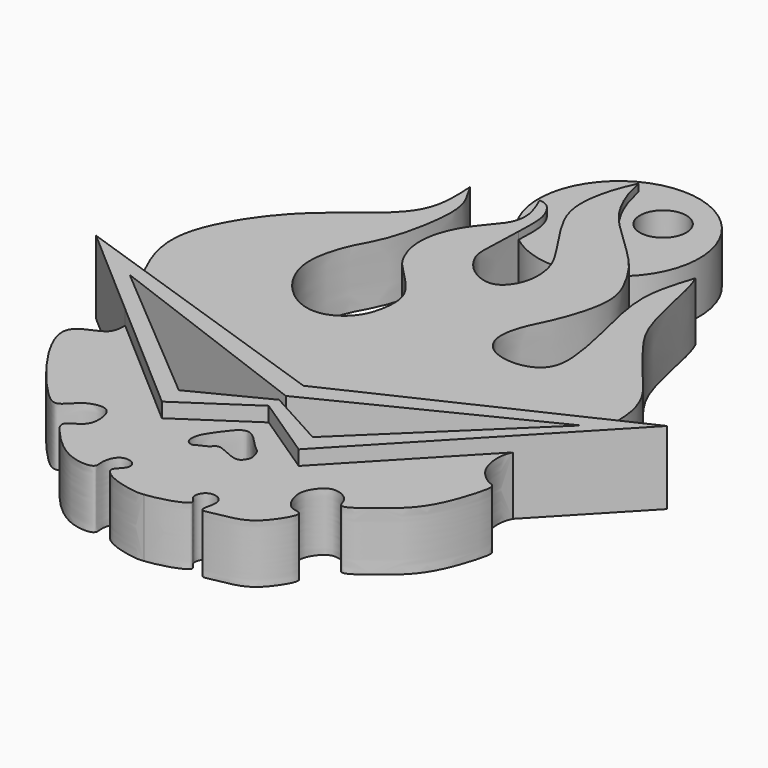
from build123d import *

# Parameters (mm, degrees)
F1_DEPTH = 4
F0_R     = 1.5875
F2_DEPTH = 3.5
F3_DEPTH = 5


with BuildPart() as f1:
    # F0 (on Top) → F1 (new body)
    with BuildSketch(Plane.XY):
        with BuildLine():
            Line((-23.4463458035, -3.1066080533), (-8.0482456853, -8.351800965))
            Line((-8.0482456853, -8.351800965), (6.2099122978, -1.6479134176))
            add(Edge.make_bspline(
                [(-0.6776107475, 15.9168429673), (-0.5547234187, 15.6335068813), (-0.193005946, 14.7995102936), (0.5842103137, 10.3623141888), (1.8686840331, 8.1322903263), (4.1843306677, 5.3157376132), (5.7923203266, 3.4772454688), (6.4672636362, 1.341805332), (6.339184868, -0.9593375788), (6.2434369598, -1.4693428761), (6.2099122978, -1.6479134176)],
                knots=[0, 0, 0, 0, 0.0889639989, 0.2618645319, 0.400374587, 0.555994263, 0.6854649854, 0.8091162952, 0.933164995, 1, 1, 1, 1], degree=3))
            add(Edge.make_bspline(
                [(-4.2128812638, 14.6453924647), (-3.8775023598, 14.1980538485), (-3.272630837, 13.1669278968), (-2.244509103, 11.0539583362), (-3.5600318825, 7.250304177), (-4.4287622123, 5.7933014491), (-4.8627791788, 3.7670937923), (-3.7434011839, 2.3273631703), (-1.5765012047, 2.0709050405), (0.0385468062, 3.0430204467), (-0.0892461913, 5.5697158518), (-0.8325343001, 8.7094761689), (-1.7695911961, 12.5295841732), (-1.0353936141, 14.8070216671), (-0.6776107475, 15.9168429673)],
                knots=[0.2575455897, 0.2575455897, 0.2575455897, 0.2575455897, 0.3019464562, 0.3643188106, 0.4430469187, 0.4973602682, 0.5521805979, 0.603169185, 0.6606744669, 0.7114053954, 0.7718381415, 0.8456781275, 0.9247971891, 1, 1, 1, 1], degree=3))
            add(Edge.make_bspline(
                [(-9.8862806335, 22.56250754), (-9.7941318664, 22.1506914948), (-9.588449974, 21.2314919632), (-8.744850994, 19.2891661398), (-7.0948894855, 17.5295824588), (-5.0605769539, 15.7131426738), (-4.3245595881, 14.7943524214), (-4.2128812638, 14.6453924647)],
                knots=[0, 0, 0, 0, 0.0465869149, 0.1039849489, 0.1675927617, 0.2427604786, 0.2575455897, 0.2575455897, 0.2575455897, 0.2575455897], degree=3))
            add(Edge.make_bspline(
                [(-8.0434103396, 13.0874726912), (-8.1909932862, 13.3482535829), (-8.868731027, 14.4095082148), (-10.4052543664, 16.5801724301), (-11.0016735043, 18.598484066), (-10.6029665302, 20.9581319115), (-10.1142868351, 22.0520920363), (-9.8862806335, 22.56250754)],
                knots=[0.6581946752, 0.6581946752, 0.6581946752, 0.6581946752, 0.6889243431, 0.7808844805, 0.8549837752, 0.9323389146, 1, 1, 1, 1], degree=3))
            add(Edge.make_bspline(
                [(-11.4209095896, 14.2429178627), (-11.4517468384, 13.3988160816), (-11.5499069823, 11.6109293485), (-11.5013479001, 10.4882445874), (-10.531288945, 9.1161864772), (-9.168481161, 8.5195425848), (-8.2096502519, 8.7376578486), (-7.3604577791, 9.9709171995), (-7.3896420016, 11.7412506591), (-7.8259468897, 12.7032120859), (-8.0434103396, 13.0874726912)],
                knots=[0.1837278223, 0.1837278223, 0.1837278223, 0.1837278223, 0.2509088743, 0.3097479396, 0.3735074258, 0.4344388861, 0.4819421849, 0.5415255673, 0.612914514, 0.6581946752, 0.6581946752, 0.6581946752, 0.6581946752], degree=3))
            add(Edge.make_bspline(
                [(-12.8001319264, 17.7603885514), (-12.583109562, 17.7218502114), (-12.0906696814, 17.6344038562), (-11.4581307332, 16.5719756068), (-11.3791334498, 15.6413701517), (-11.4085171256, 14.5821342746), (-11.4209095896, 14.2429178627)],
                knots=[0, 0, 0, 0, 0.0417833397, 0.094809504, 0.1567299935, 0.1837278223, 0.1837278223, 0.1837278223, 0.1837278223], degree=3))
            add(Edge.make_bspline(
                [(-12.3268241169, 15.1314950732), (-12.2068654393, 15.4887601), (-12.1767524667, 16.3532142218), (-12.5714586795, 17.2441971375), (-12.8001319264, 17.7603885514)],
                knots=[0.9185865108, 0.9185865108, 0.9185865108, 0.9185865108, 0.952833053, 1, 1, 1, 1], degree=3))
            add(Edge.make_bspline(
                [(-16.6511703283, 16.6377127171), (-16.4258684407, 16.2718001963), (-15.9361034206, 15.4763734246), (-15.3279351175, 13.7794825), (-16.2191117536, 9.1708597436), (-17.4728177376, 7.4267977861), (-18.3571062486, 4.3361910837), (-17.1780986632, 1.7975340283), (-15.3818177743, 0.3090335929), (-13.5307942057, 0.0905361866), (-11.9119236503, 1.2288050387), (-11.4007805405, 3.0066811855), (-11.407761035, 4.8723790531), (-13.2373303166, 6.6764804394), (-14.2508784646, 7.6923667527), (-14.8774252979, 9.3726830754), (-14.8131660002, 11.1329727587), (-13.9037698319, 13.1831468203), (-12.6370779779, 14.3724927453), (-12.3594506235, 15.034325698), (-12.3268241169, 15.1314950732)],
                knots=[0, 0, 0, 0, 0.0419742673, 0.0912443659, 0.1695359879, 0.2256379329, 0.2890431708, 0.3496107164, 0.404786674, 0.4530224975, 0.5025107568, 0.5517008189, 0.6008748216, 0.6585309608, 0.7034168172, 0.7511819918, 0.7997796648, 0.8548358262, 0.9092720948, 0.9185865108, 0.9185865108, 0.9185865108, 0.9185865108], degree=3))
            add(Edge.make_bspline(
                [(-23.4463458035, -3.1066080533), (-23.8612850977, -2.3889557393), (-24.7662955917, -0.823707792), (-25.8471760533, 2.883328846), (-22.9748836174, 7.7157545922), (-20.0390259464, 10.1985178591), (-16.4443182773, 12.8327875278), (-16.5837154908, 15.3969195556), (-16.6511703283, 16.6377127171)],
                knots=[0, 0, 0, 0, 0.1372817414, 0.2994207075, 0.4955714308, 0.6676240904, 0.8391620434, 1, 1, 1, 1], degree=3))
        make_face()
    extrude(amount=F1_DEPTH)

    # F0 (on Top) → F2 (join)
    with BuildSketch(Plane.XY):
        with BuildLine():
            ThreePointArc((-4.2128812638, 14.6453924647), (-7.7193329291, 24.0776268839), (-12.3268241169, 15.1314950732))
            add(Edge.make_bspline(
                [(-12.3268241169, 15.1314950732), (-12.2068654393, 15.4887601), (-12.1767524667, 16.3532142218), (-12.5714586795, 17.2441971375), (-12.8001319264, 17.7603885514)],
                knots=[0.9185865108, 0.9185865108, 0.9185865108, 0.9185865108, 0.952833053, 1, 1, 1, 1], degree=3))
            add(Edge.make_bspline(
                [(-12.8001319264, 17.7603885514), (-12.583109562, 17.7218502114), (-12.0906696814, 17.6344038562), (-11.4581307332, 16.5719756068), (-11.3791334498, 15.6413701517), (-11.4085171256, 14.5821342746), (-11.4209095896, 14.2429178627)],
                knots=[0, 0, 0, 0, 0.0417833397, 0.094809504, 0.1567299935, 0.1837278223, 0.1837278223, 0.1837278223, 0.1837278223], degree=3))
            ThreePointArc((-11.4209095896, 14.2429178627), (-9.8285070948, 13.383561524), (-8.0434103396, 13.0874726912))
            add(Edge.make_bspline(
                [(-8.0434103396, 13.0874726912), (-8.1909932862, 13.3482535829), (-8.868731027, 14.4095082148), (-10.4052543664, 16.5801724301), (-11.0016735043, 18.598484066), (-10.6029665302, 20.9581319115), (-10.1142868351, 22.0520920363), (-9.8862806335, 22.56250754)],
                knots=[0.6581946752, 0.6581946752, 0.6581946752, 0.6581946752, 0.6889243431, 0.7808844805, 0.8549837752, 0.9323389146, 1, 1, 1, 1], degree=3))
            add(Edge.make_bspline(
                [(-9.8862806335, 22.56250754), (-9.7941318664, 22.1506914948), (-9.588449974, 21.2314919632), (-8.744850994, 19.2891661398), (-7.0948894855, 17.5295824588), (-5.0605769539, 15.7131426738), (-4.3245595881, 14.7943524214), (-4.2128812638, 14.6453924647)],
                knots=[0, 0, 0, 0, 0.0465869149, 0.1039849489, 0.1675927617, 0.2427604786, 0.2575455897, 0.2575455897, 0.2575455897, 0.2575455897], degree=3))
        make_face()
        with Locations((-6.536277011, 20.4759910703)):
            Circle(F0_R, mode=Mode.SUBTRACT)
    extrude(amount=F2_DEPTH)



with BuildPart() as f1b:
    # F0 (on Top) → F1, piece 2 (new body)
    with BuildSketch(Plane.XY):
        with BuildLine():
            Line((-12.8001319264, -14.501632193), (-21.0201506282, -7.365571203))
            add(Edge.make_bspline(
                [(-21.0201506282, -7.365571203), (-21.0270720445, -7.7455175358), (-21.0419787447, -8.563810607), (-22.5452629281, -8.9844988646), (-23.5392754003, -9.9057758794), (-22.205148695, -12.7673504234), (-19.5344265051, -15.9822727272), (-18.1649380561, -17.0076468473), (-17.3612644655, -15.5996634609), (-15.7330081132, -15.2562374112), (-15.2694695887, -16.3262633776), (-15.3235558006, -17.6978661671), (-16.8817003497, -18.1830340703), (-15.9118457135, -19.3756949292), (-14.1225321207, -21.1865135727), (-11.9435899062, -21.2745928817), (-12.2196569116, -20.4354169189), (-11.9152232552, -19.4388344727), (-11.2154431303, -19.275125977), (-10.6509058358, -19.5593394586), (-10.6183440868, -20.2111997017), (-11.4961234683, -20.7871170188), (-10.5061126059, -21.6522828302), (-8.5961978355, -22.0566237572), (-8.1859934582, -22.0005064801), (-8.0482456853, -21.981662141)],
                knots=[0, 0, 0, 0, 0.0399658339, 0.0860746957, 0.1262343968, 0.1922556043, 0.2747462011, 0.3180909602, 0.3628222734, 0.4087121104, 0.4468175698, 0.4902926153, 0.5322804571, 0.5726758017, 0.6375911507, 0.6874087964, 0.7174310117, 0.7558197876, 0.7865229194, 0.8153193878, 0.8437858011, 0.8781500818, 0.9168026133, 0.9720620858, 1, 1, 1, 1], degree=3))
            add(Edge.make_bspline(
                [(-8.0482456853, -21.981662141), (-7.7009764258, -21.9384752182), (-6.96573003, -21.8470388783), (-5.0617657899, -21.1592653451), (-5.9937730496, -20.6172844973), (-5.6928265136, -19.6935558075), (-4.8448024043, -19.5883363726), (-4.203229863, -20.2614546114), (-4.8339768273, -21.6459106075), (-3.6109578676, -21.2855589949), (-1.9858198145, -21.0992142306), (-0.8006366586, -20.0027238785), (0.1452397514, -18.2985380272), (-1.0393414733, -18.4434433041), (-1.6780349568, -17.2168093882), (-1.6794115936, -16.2503550631), (-0.990828544, -15.2953847364), (-0.1829806405, -15.1112589612), (0.8154146698, -15.6813947725), (0.8607252862, -16.854822736), (2.8682344188, -15.2924955121), (4.7319221795, -13.7756542104), (5.7557913129, -10.7826890536), (5.9830191381, -9.5166259324), (5.3850966638, -9.4240942345), (4.1534352714, -8.4073432382), (3.9734989521, -6.6210578943), (4.1970882612, -6.0933699584), (4.2862397487, -5.8829656055)],
                knots=[0, 0, 0, 0, 0.0393554677, 0.0833242935, 0.1109279998, 0.1422000398, 0.1722879369, 0.2037766323, 0.2404515444, 0.2722741743, 0.3186978742, 0.3656144137, 0.4081965956, 0.4381211093, 0.4780443593, 0.5131900759, 0.5500969102, 0.5811722656, 0.6177362965, 0.6473144107, 0.696371595, 0.7551681269, 0.8184217229, 0.8546051255, 0.8781254634, 0.9220422792, 0.9689160152, 1, 1, 1, 1], degree=3))
            Line((4.2862397487, -5.8829656055), (-3.6559742895, -14.2466928827))
            Line((-3.6559742895, -14.2466928827), (-8.0482456853, -11.3188242557))
            Line((-8.0482456853, -11.3188242557), (-12.8001319264, -14.501632193))
        make_face()
        with BuildLine():
            add(Edge.make_bspline(
                [(-8.2429656759, -12.8270927817), (-8.6657598551, -12.7858720047), (-9.4106131239, -13.784449908), (-10.1502593526, -14.824574061), (-10.1507548975, -15.7061662558), (-9.6317898388, -15.9484218554), (-9.3672756374, -15.7090204962), (-8.7787554571, -15.5290606144), (-8.4615513296, -15.031807584), (-7.6704990745, -15.3977055847), (-6.5719278365, -15.9253331651), (-6.2127524942, -15.213858486), (-6.1922088539, -14.9791826117), (-6.3799008503, -14.2600138959), (-6.9437980583, -13.9973090058), (-7.7834259076, -12.8718961097), (-8.2429656759, -12.8270927817)],
                knots=[0, 0, 0, 0, 0.0995556023, 0.1970462733, 0.2683213383, 0.3226653949, 0.3697374817, 0.4340704019, 0.4913800526, 0.5651803382, 0.6521176851, 0.7154174109, 0.7574163697, 0.8233886592, 0.8917918916, 1, 1, 1, 1], degree=3))
        make_face(mode=Mode.SUBTRACT)
    extrude(amount=F1_DEPTH)


with BuildPart() as f1_1:
    add(f1.part)

    add(f1b.part)  # F3 merges F1b
    # F0 (on Top) → F3 (join)
    with BuildSketch(Plane.XY):
        Polygon((6.2099122978, -1.6479134176), (-8.0482456853, -8.351800965), (-23.4463458035, -3.1066080533), (-27.5273583849, -1.7164561449), (-21.0201506282, -7.365571203), (-12.8001319264, -14.501632193), (-8.0482456853, -11.3188242557), (-3.6559742895, -14.2466928827), (4.2862397487, -5.8829656055), (10.0001171211, 0.1341615845), align=None)
        Polygon((-23.2946891358, -4.1354470903), (-8.0482456853, -9.857272731), (6.3825133237, -2.6859175431), (-3.9549185914, -12.6800397428), (-8.0482456853, -10.4294549691), (-12.9191121106, -12.9089131969), align=None, mode=Mode.SUBTRACT)
    extrude(amount=F3_DEPTH)


solid = f1_1.part
